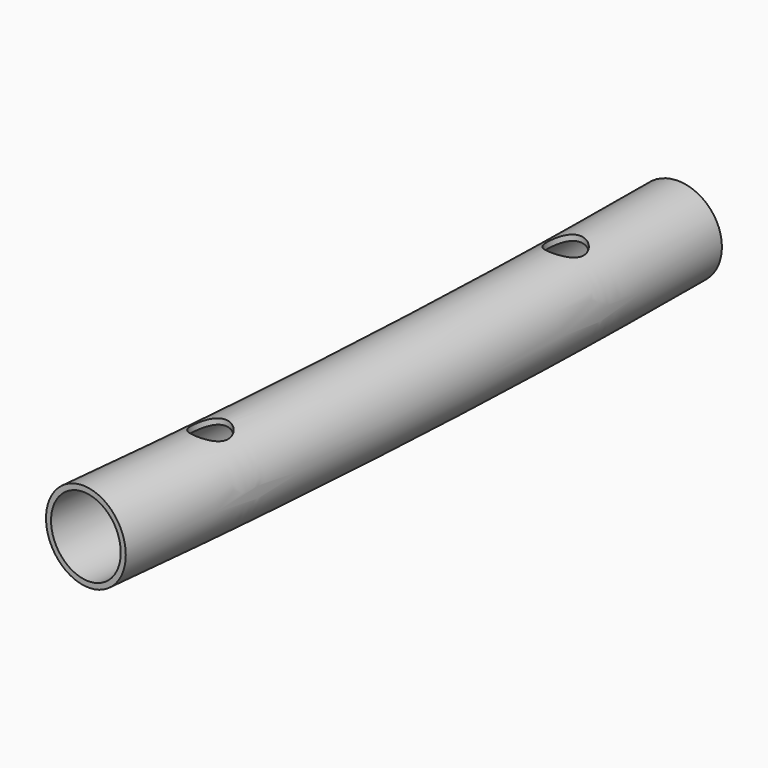
from build123d import *

# Parameters (mm, degrees)
F1_R          = 12.7
F1_R_2        = 11.1
F3_R          = 5.25
F4_DEPTH      = 12.7010001
F4_DEPTH_BACK = 12.7010001


with BuildPart() as f2:
    # F2: sweep along a path in F0
    with BuildLine(Plane.XY) as f2_path:
        ThreePointArc((1823.1628588801, -200), (1831.3636735329, -100.1494146961), (1834.1, 0))
    # F1 (on Front) → F2 (sweep)
    with BuildSketch(Plane.XZ):
        with Locations((1834.1, 0)):
            Circle(F1_R)
        with Locations((1834.1, 0)):
            Circle(F1_R_2, mode=Mode.SUBTRACT)
    sweep(path=f2_path.line)

    # F3 (on Top) → F4 (cut, two sides)
    with BuildSketch(Plane.XY) as f4_sk:
        with Locations((1833.6637668886, -40)):
            Circle(F3_R)
        with Locations((1827.1077718624, -160)):
            Circle(F3_R)
    extrude(amount=-F4_DEPTH, mode=Mode.SUBTRACT)
    extrude(f4_sk.sketch, amount=F4_DEPTH_BACK, mode=Mode.SUBTRACT)


solid = f2.part
